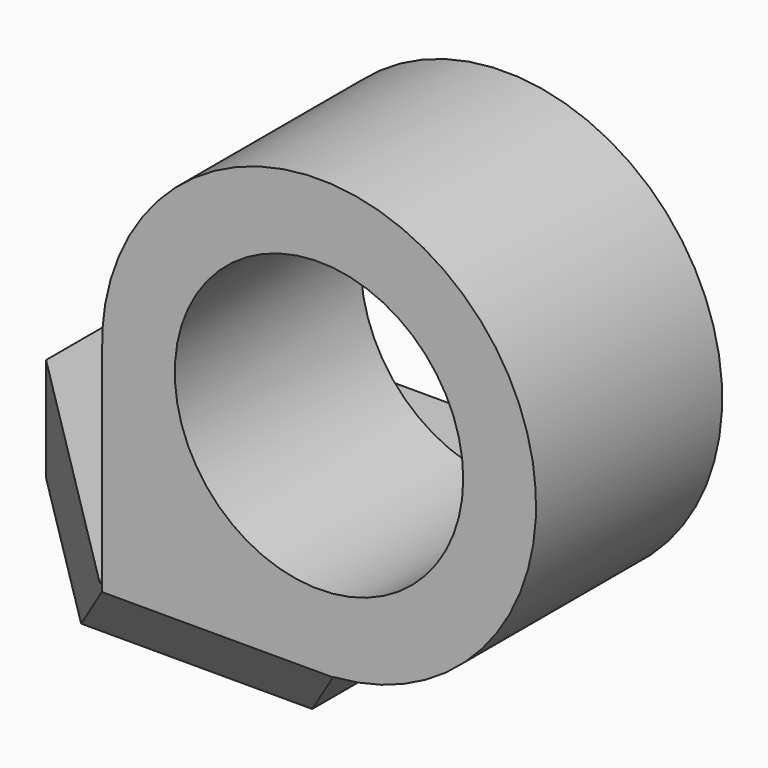
from build123d import *

# Parameters (mm, degrees)
CYLINDER013_R     = 9.3
CYLINDER013_DEPTH = 30
BOX004_W          = 38
BOX004_H          = 16
BOX004_DEPTH      = 16
FILLET002_R       = 1
BOX003_W          = 20
BOX003_H          = 33
BOX003_DEPTH      = 16
FILLET001_R       = 1
BOX002_W          = 33
BOX002_H          = 27
BOX002_DEPTH      = 20
FILLET_R          = 2
CHAMFER003_SIZE   = 12
CHAMFER004_SIZE   = 18
CHAMFER005_SIZE   = 6.7
CHAMFER006_SIZE   = 6.8
CYLINDER012_R     = 9.3
CYLINDER012_DEPTH = 30
CYLINDER011_R     = 14
CYLINDER011_DEPTH = 15


with BuildPart() as cilindro013:
    # Cylinder013 → Cylinder013 (new body)
    with BuildSketch(Plane(origin=(27, 199, 74), x_dir=(1, 0, 0), z_dir=(0, -1, 0))):
        Circle(CYLINDER013_R)
    extrude(amount=CYLINDER013_DEPTH)


with BuildPart() as fillet002:
    # Box004 → Box004 (new body)
    with BuildSketch(Plane(origin=(-7, 189, 60), x_dir=(1, 0, 0), z_dir=(0, 0, 1))):
        with Locations((19, 8)):
            Rectangle(BOX004_W, BOX004_H)
    extrude(amount=BOX004_DEPTH)

    # Fillet002
    fillet002_edges = [fillet002.edges().sort_by_distance(p)[0] for p in [
        (12, 189, 60),
    ]]
    fillet(fillet002_edges, radius=FILLET002_R)


with BuildPart() as fillet001:
    # Box003 → Box003 (new body)
    with BuildSketch(Plane(origin=(-7, 172, 60), x_dir=(1, 0, 0), z_dir=(0, 0, 1))):
        with Locations((10, 16.5)):
            Rectangle(BOX003_W, BOX003_H)
    extrude(amount=BOX003_DEPTH)

    # Fillet001
    fillet001_edges = [fillet001.edges().sort_by_distance(p)[0] for p in [
        (13, 188.5, 60),
    ]]
    fillet(fillet001_edges, radius=FILLET001_R)


with BuildPart() as cut006:
    # Box002 → Box002 (new body)
    with BuildSketch(Plane(origin=(-5, 174, 53.3), x_dir=(1, 0, 0), z_dir=(0, 0, 1))):
        with Locations((16.5, 13.5)):
            Rectangle(BOX002_W, BOX002_H)
    extrude(amount=BOX002_DEPTH)

    # Fillet
    fillet_edges = [cut006.edges().sort_by_distance(p)[0] for p in [
        (-5, 201, 63.3),
    ]]
    fillet(fillet_edges, radius=FILLET_R)

    # Chamfer003
    chamfer003_edges = [cut006.edges().sort_by_distance(p)[0] for p in [
        (28, 201, 63.3),
    ]]
    chamfer(chamfer003_edges, length=CHAMFER003_SIZE)

    # Chamfer004
    chamfer004_edges = [cut006.edges().sort_by_distance(p)[0] for p in [
        (-5, 174, 63.3),
    ]]
    chamfer(chamfer004_edges, length=CHAMFER004_SIZE)

    # Chamfer005
    chamfer005_edges = [cut006.edges().sort_by_distance(p)[0] for p in [
        (20.5, 174, 53.3),
    ]]
    chamfer(chamfer005_edges, length=CHAMFER005_SIZE)

    # Chamfer006
    chamfer006_edges = [cut006.edges().sort_by_distance(p)[0] for p in [
        (28, 184.85, 53.3),
    ]]
    chamfer(chamfer006_edges, length=CHAMFER006_SIZE)

    # Cut004: cut Fillet001
    add(fillet001.part, mode=Mode.SUBTRACT)

    # Cut005: cut Fillet002
    add(fillet002.part, mode=Mode.SUBTRACT)

    # Cut006: cut Cilindro013
    add(cilindro013.part, mode=Mode.SUBTRACT)


with BuildPart() as cilindro012:
    # Cylinder012 → Cylinder012 (new body)
    with BuildSketch(Plane(origin=(27, 199, 74), x_dir=(1, 0, 0), z_dir=(0, -1, 0))):
        Circle(CYLINDER012_R)
    extrude(amount=CYLINDER012_DEPTH)


with BuildPart() as inductive_probe_mount:
    # Cylinder011 → Cylinder011 (new body)
    with BuildSketch(Plane(origin=(27, 189, 74), x_dir=(1, 0, 0), z_dir=(0, -1, 0))):
        Circle(CYLINDER011_R)
    extrude(amount=CYLINDER011_DEPTH)

    # Cut003: cut Cilindro012
    add(cilindro012.part, mode=Mode.SUBTRACT)

    # Fusion005: union Cut006
    add(cut006.part)


solid = inductive_probe_mount.part
